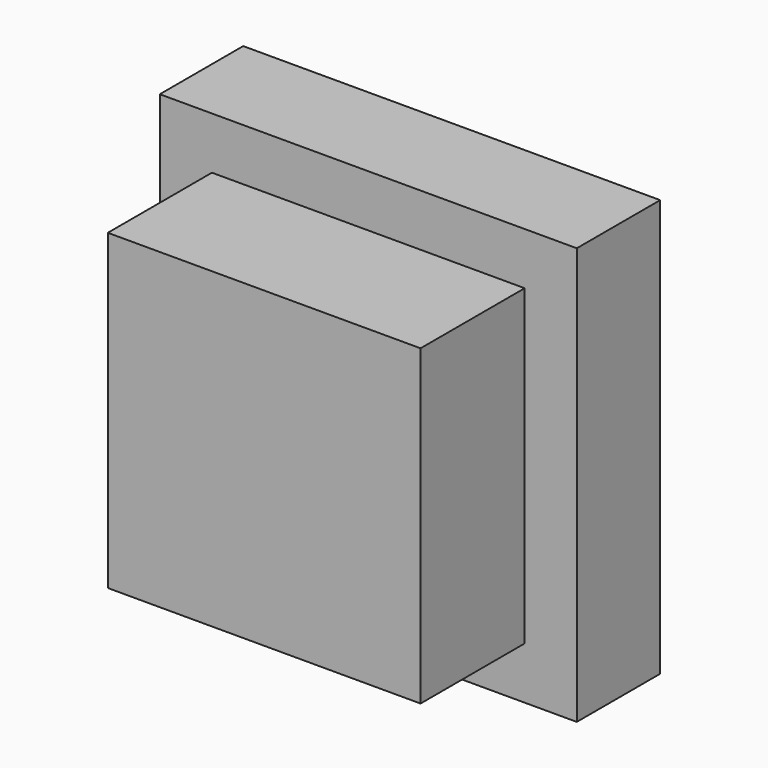
from build123d import *

# Parameters (mm, degrees)
F0_W     = 25.4
F0_H     = 25.4
F0_W_2   = 19.05
F0_H_2   = 19.05
F2_DEPTH = 6.35
F1_W     = 19.05
F1_H     = 19.05
F3_DEPTH = 14.277099


with BuildPart() as f2:
    # F0 (on Front) → F2 (new body)
    with BuildSketch(Plane.XZ):
        Rectangle(F0_W, F0_H)
        Rectangle(F0_W_2, F0_H_2, mode=Mode.SUBTRACT)
    extrude(amount=F2_DEPTH)

    # F1 (on face) → F3 (join)
    with BuildSketch(Plane.XZ):
        Rectangle(F1_W, F1_H)
    extrude(amount=F3_DEPTH)


solid = f2.part
